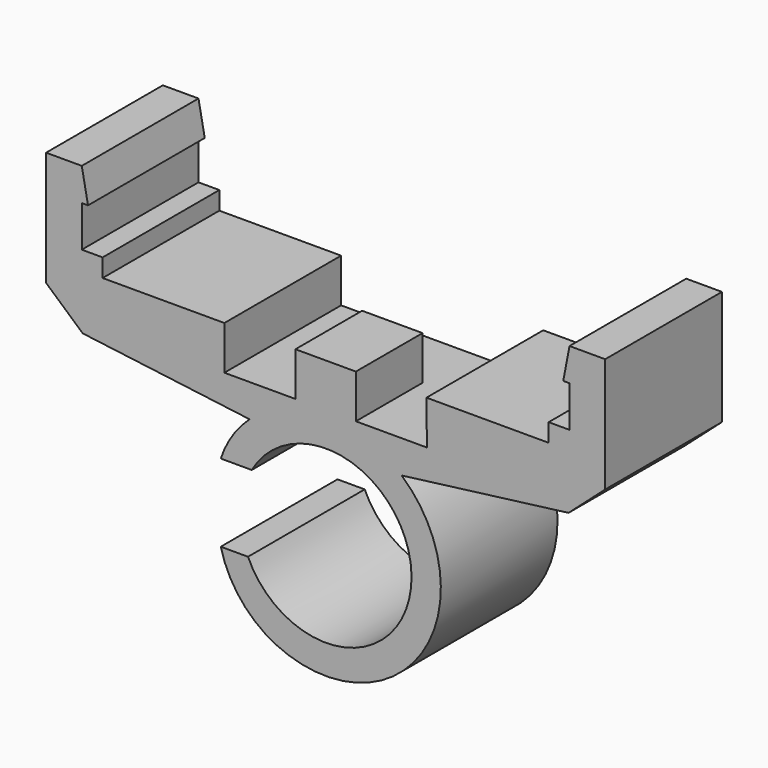
from build123d import *

# Parameters (mm, degrees)
F1_DEPTH = 7
F2_W     = 2.9
F2_H     = 2.099896
F3_DEPTH = 3


with BuildPart() as f1:
    # F0 (on Front) → F1 (new body)
    with BuildSketch(Plane.XZ):
        with BuildLine():
            ThreePointArc((-5.032118, -1.6821), (-3.855564, -3.858867), (-1.779743, -5.205552))
            ThreePointArc((-1.779743, -5.205552), (4.78314, -2.7614), (3.646295, 4.148946))
            Line((3.646295, 4.148946), (11.653332, 5.173628))
            Line((11.653332, 5.173628), (13.412204, 6.73433))
            Line((13.412204, 6.73433), (13.412204, 12.23433))
            Line((13.412204, 12.23433), (11.7, 12.23433))
            Line((11.7, 12.23433), (11.7, 10.663961))
            Line((11.7, 10.663961), (11.7, 9.565437))
            Line((11.7, 9.565437), (11.7, 8.693961))
            Line((11.7, 8.693961), (10.7, 8.693961))
            Line((10.7, 8.693961), (10.7, 7.822486))
            Line((10.7, 7.822486), (4.837654, 7.822486))
            Line((4.837654, 7.822486), (4.858614, 5.72259))
            Line((4.858614, 5.72259), (1.45, 5.72259))
            Line((1.45, 5.72259), (-1.45, 5.72259))
            Line((-1.45, 5.72259), (-4.858614, 5.72259))
            Line((-4.858614, 5.72259), (-4.858614, 7.822486))
            Line((-4.858614, 7.822486), (-10.7, 7.822486))
            Line((-10.7, 7.822486), (-10.7, 8.693961))
            Line((-10.7, 8.693961), (-11.7, 8.693961))
            Line((-11.7, 8.693961), (-11.7, 9.565437))
            Line((-11.7, 9.565437), (-11.7, 10.663961))
            Line((-11.7, 10.663961), (-11.7, 12.23433))
            Line((-11.7, 12.23433), (-13.412204, 12.23433))
            Line((-13.412204, 12.23433), (-13.412204, 6.73433))
            Line((-13.412204, 6.73433), (-11.653332, 5.173628))
            Line((-11.653332, 5.173628), (-3.646295, 4.148946))
            ThreePointArc((-3.646295, 4.148946), (-4.477405, 3.185669), (-5.032118, 2.040706))
            Line((-5.032118, 2.040706), (-3.545966, 2.040706))
            ThreePointArc((-3.545966, 2.040706), (4.116617, -0.194474), (-3.72546, -1.6821))
            Line((-3.72546, -1.6821), (-5.032118, -1.6821))
        make_face()
        Polygon((11.7, 10.663961), (11.7, 12.23433), (11.4, 10.663961), align=None)
        Polygon((-11.4, 10.663961), (-11.7, 12.23433), (-11.7, 10.663961), align=None)
        Polygon((-1.45, 5.72259), (1.45, 5.72259), (1.45, 7.822486), (0, 7.822486), (-1.45, 7.822486), align=None)
    extrude(amount=F1_DEPTH)

    # F2 (on face) → F3 (cut)
    with BuildSketch(Plane(origin=(0, 0, 0), x_dir=(-1, 0, 0), z_dir=(0, 1, 0))):
        with Locations((0, 6.772538)):
            Rectangle(F2_W, F2_H)
    extrude(amount=-F3_DEPTH, mode=Mode.SUBTRACT)


solid = f1.part
